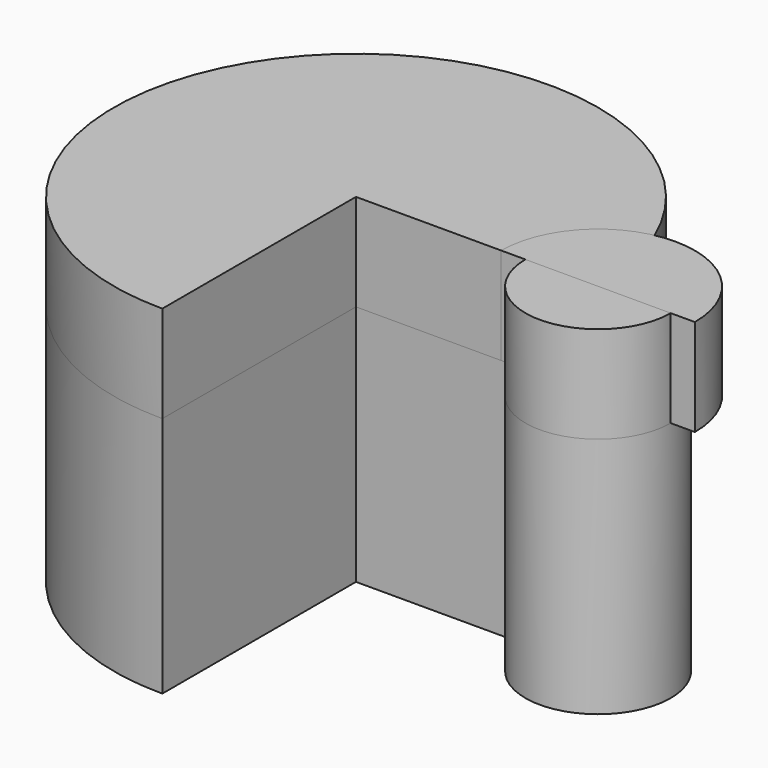
from build123d import *

# Parameters (mm, degrees)
F1_DEPTH = 5.08
F2_DEPTH = 12.7
F4_DEPTH = 5.08


with BuildPart() as f1:
    # F0 (on Top) → F1 (new body)
    with BuildSketch(Plane.XY):
        with BuildLine():
            ThreePointArc((8.89, 0), (15.589076, -2.483816), (12.1285, 3.766894))
            ThreePointArc((12.1285, 3.766894), (-10.225692, 7.531615), (0, -12.7))
            Line((0, -12.7), (0, 0))
            Line((0, 0), (8.89, 0))
        make_face()
    extrude(amount=F1_DEPTH)


with BuildPart() as f2:
    # F0 (on Top) → F2 (new body)
    with BuildSketch(Plane.XY):
        with BuildLine():
            ThreePointArc((8.89, 0), (15.589076, -2.483816), (12.1285, 3.766894))
            ThreePointArc((12.1285, 3.766894), (-10.225692, 7.531615), (0, -12.7))
            Line((0, -12.7), (0, 0))
            Line((0, 0), (8.89, 0))
        make_face()
    extrude(amount=-F2_DEPTH)


with BuildPart() as f4:
    # F3 (on Top) → F4 (new body)
    with BuildSketch(Plane.XY):
        with BuildLine():
            Line((7.62, 0), (17.78, 0))
            ThreePointArc((17.78, 0), (12.7, 5.08), (7.62, 0))
        make_face()
    extrude(amount=F4_DEPTH)


solid = Compound([f1.part, f2.part, f4.part])
